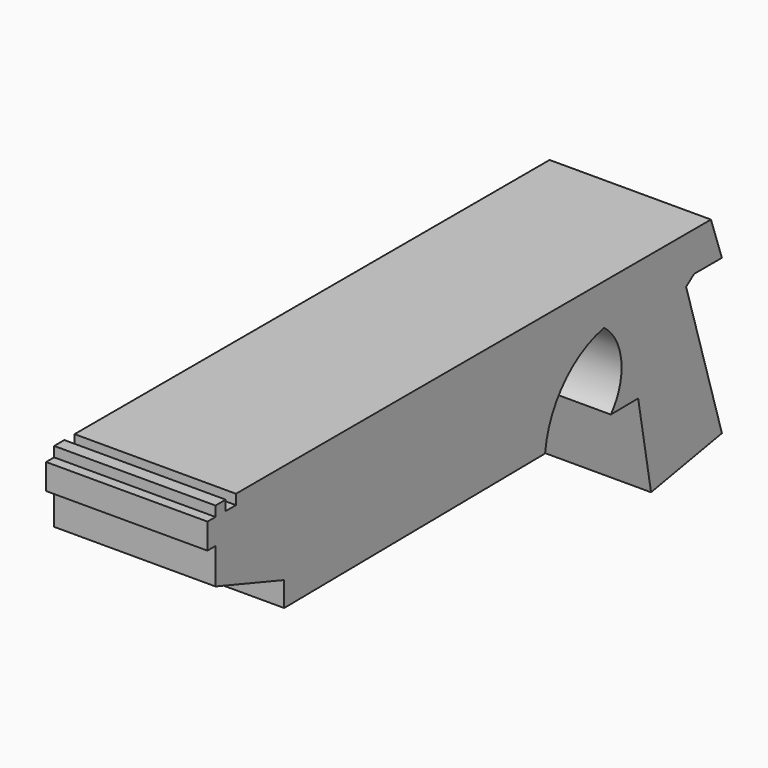
from build123d import *

# Parameters (mm, degrees)
F0_W     = 2.0128302276
F0_H     = 2.1566022187
F1_DEPTH = 25.4


with BuildPart() as f1:
    # F0 (on Right) → F1 (new body)
    with BuildSketch(Plane.YZ):
        Polygon((49.458116293, 25.6635844707), (51.0396212339, 26.8137734383), (36.0871702433, 26.8137734383), (40.0236576229, 14.0418562533), (42.5569824874, 0), (56.503020227, 2.5160380173), align=None)
        with BuildLine():
            Line((40.0236576229, 14.0418562533), (36.0871702433, 26.8137734383))
            ThreePointArc((36.0871702433, 26.8137734383), (34.696856705, 26.7467186902), (33.3194493332, 26.5461769095))
            ThreePointArc((33.3194493332, 26.5461769095), (36.7148073807, 20.5544981047), (34.649788507, 13.984538575))
            Line((34.649788507, 13.984538575), (40.0236576229, 14.0418562533))
        make_face()
        with BuildLine():
            Line((56.503020227, 26.8137734383), (54.3464161456, 32.9960398376))
            Line((54.3464161456, 32.9960398376), (-39.1064174473, 32.9960398376))
            Line((-39.1064174473, 32.9960398376), (-39.1064174473, 31.414527446))
            Line((-39.1064174473, 31.414527446), (-39.1064174473, 29.2579252273))
            Line((-39.1064174473, 29.2579252273), (-41.1192476749, 29.2579252273))
            Line((-41.1192476749, 29.2579252273), (-43.1320741773, 29.2579252273))
            Line((-43.1320741773, 29.2579252273), (-43.1320741773, 27.3888688534))
            Line((-43.1320741773, 27.3888688534), (-43.1320741773, 21.7816997319))
            Line((-43.1320741773, 21.7816997319), (-29.6181123704, 17.1809438616))
            Line((-29.6181123704, 17.1809438616), (4.8883017153, 31.4148887992))
            Line((4.8883017153, 31.4148887992), (52.9086813331, 31.4148887992))
            Line((52.9086813331, 31.4148887992), (52.9455639897, 27.9569230312))
            Line((52.9455639897, 27.9569230312), (36.0952989591, 27.7771981348))
            ThreePointArc((36.0952989591, 27.7771981348), (25.6457729914, 23.7390525526), (20.4147553947, 13.8327077375))
            Line((20.4147553947, 13.8327077375), (21.7162388795, 13.846589358))
            ThreePointArc((21.7162388795, 13.846589358), (25.4216542485, 22.1116053387), (33.3194493332, 26.5461769095))
            ThreePointArc((33.3194493332, 26.5461769095), (34.696856705, 26.7467186902), (36.0871702433, 26.8137734383))
            Line((36.0871702433, 26.8137734383), (51.0396212339, 26.8137734383))
            Line((51.0396212339, 26.8137734383), (56.503020227, 26.8137734383))
        make_face()
        Polygon((-41.1192476749, 29.2579252273), (-41.1192476749, 31.414527446), (-41.1192476749, 32.9960398376), (-43.1320741773, 32.9960398376), (-43.1320741773, 31.414527446), (-43.1320741773, 29.2579252273), align=None)
        with Locations((-40.1128325611, 30.3362263367)):
            Rectangle(F0_W, F0_H)
        Polygon((-43.1320741773, 27.3888688534), (-43.1320741773, 29.2579252273), (-43.1320741773, 31.414527446), (-44.7135865688, 31.414527446), (-44.7135865688, 27.3888688534), align=None)
        with BuildLine():
            Line((-29.6181123704, 13.2990572602), (20.4147553947, 13.8327077375))
            ThreePointArc((20.4147553947, 13.8327077375), (25.6457729914, 23.7390525526), (36.0952989591, 27.7771981348))
            Line((36.0952989591, 27.7771981348), (52.9455639897, 27.9569230312))
            Line((52.9455639897, 27.9569230312), (52.9086813331, 31.4148887992))
            Line((52.9086813331, 31.4148887992), (4.8883017153, 31.4148887992))
            Line((4.8883017153, 31.4148887992), (-29.6181123704, 17.1809438616))
            Line((-29.6181123704, 17.1809438616), (-29.6181123704, 13.2990572602))
        make_face()
    extrude(amount=F1_DEPTH)


solid = f1.part
